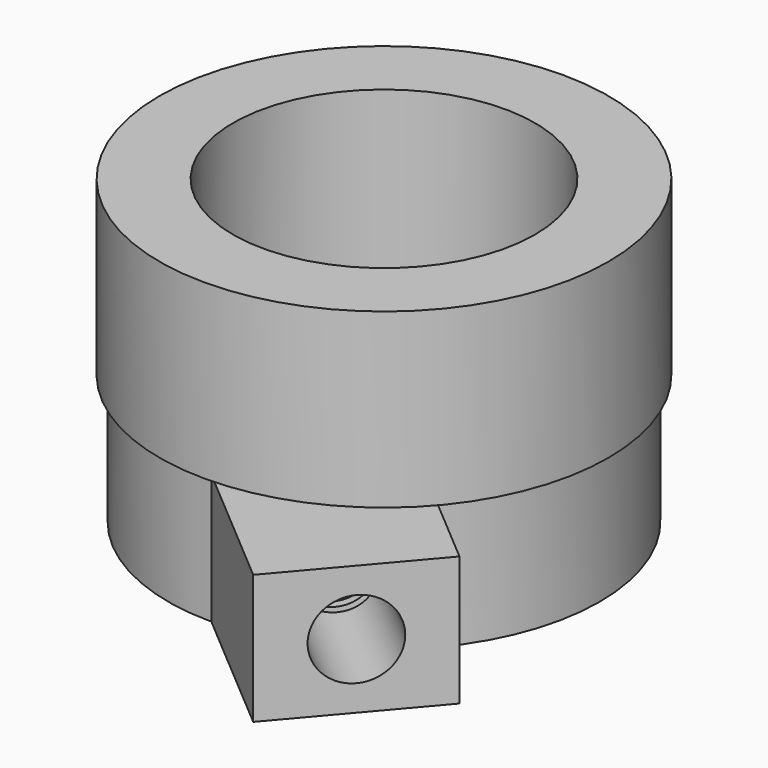
from build123d import *

# Parameters (mm, degrees)
F1_DEPTH  = 15
F2_R      = 4.5
F3_DEPTH  = 20
F4_R      = 22
F5_DEPTH  = 15
F6_R      = 24
F6_R_2    = 23
F7_DEPTH  = 15
F9_R      = 26
F9_R_2    = 17.5
F10_DEPTH = 20


with BuildPart() as f1:
    # F0 (on Top) → F1 (new body)
    with BuildSketch(Plane.XY):
        with BuildLine():
            Line((27.54567, -23.504654), (19.011129, -16.235053))
            ThreePointArc((19.011129, -16.235053), (-10.467179, 22.703263), (0, -25))
            Line((0, -25), (15.225361, -37.968747))
            Line((15.225361, -37.968747), (27.54567, -23.504654))
        make_face()
    extrude(amount=F1_DEPTH)

    # F2 (on face) → F3 (cut)
    with BuildSketch(Plane(origin=(27.566226, -23.480522, 0), x_dir=(0.648437, 0.761268, 0), z_dir=(0.761268, -0.648437, 0))):
        with Locations((-9.523782, 7.506252)):
            Circle(F2_R)
    extrude(amount=-F3_DEPTH, mode=Mode.SUBTRACT)

    # F4 (on face) → F5 (cut)
    with BuildSketch(Plane.XY.offset(15)):
        Circle(F4_R)
    extrude(amount=-F5_DEPTH, mode=Mode.SUBTRACT)

    # F6 (on face) → F7 (cut)
    with BuildSketch(Plane.XY.offset(15)):
        Circle(F6_R)
        Circle(F6_R_2, mode=Mode.SUBTRACT)
    extrude(amount=-F7_DEPTH, mode=Mode.SUBTRACT)


with BuildPart() as f10:
    # F9 (on offset) → F10 (new body)
    with BuildSketch(Plane.XY.offset(15)):
        Circle(F9_R)
        Circle(F9_R_2, mode=Mode.SUBTRACT)
    extrude(amount=F10_DEPTH)


solid = Compound([f1.part, f10.part])
